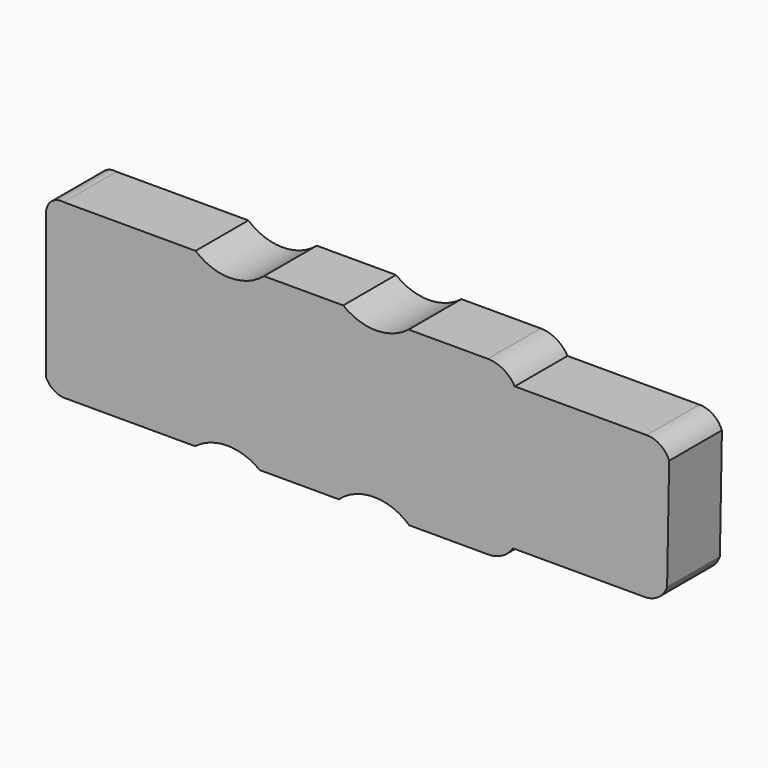
from build123d import *

# Parameters (mm, degrees)
F1_DEPTH = 25


with BuildPart() as f1:
    # F0 (on Front) → F1 (new body)
    with BuildSketch(Plane.XZ):
        with BuildLine():
            ThreePointArc((-92.43948, 33.851352), (-97.070489, 32.584286), (-99.091926, 28.229347))
            Line((-99.091926, 28.229347), (-99.091926, -26.770653))
            ThreePointArc((-99.091926, -26.770653), (-96.464596, -29.92403), (-92.627565, -31.381369))
            Line((-92.627565, -31.381369), (-42.627565, -31.381369))
            ThreePointArc((-42.627565, -31.381369), (-30.392022, -27.201973), (-18.15648, -31.381369))
            Line((-18.15648, -31.381369), (11.84352, -31.381369))
            ThreePointArc((11.84352, -31.381369), (25.189403, -26.277255), (38.535287, -31.381369))
            Line((38.535287, -31.381369), (68.535287, -31.381369))
            ThreePointArc((68.535287, -31.381369), (73.814491, -30.020555), (77.778015, -26.277255))
            Line((77.778015, -26.277255), (127.778015, -26.277255))
            ThreePointArc((127.778015, -26.277255), (133.003671, -24.585093), (136.245534, -20.150995))
            Line((136.245534, -20.150995), (137.015536, 22.199387))
            ThreePointArc((137.015536, 22.199387), (133.653161, 26.394115), (128.514688, 27.974436))
            Line((128.514688, 27.974436), (78.514688, 27.974436))
            ThreePointArc((78.514688, 27.974436), (74.196713, 32.277135), (68.307743, 33.851352))
            Line((68.307743, 33.851352), (38.307743, 33.851352))
            ThreePointArc((38.307743, 33.851352), (25.901161, 29.538185), (13.49458, 33.851352))
            Line((13.49458, 33.851352), (-16.50542, 33.851352))
            ThreePointArc((-16.50542, 33.851352), (-29.47245, 29.078174), (-42.43948, 33.851352))
            Line((-42.43948, 33.851352), (-92.43948, 33.851352))
        make_face()
    extrude(amount=F1_DEPTH)


solid = f1.part
